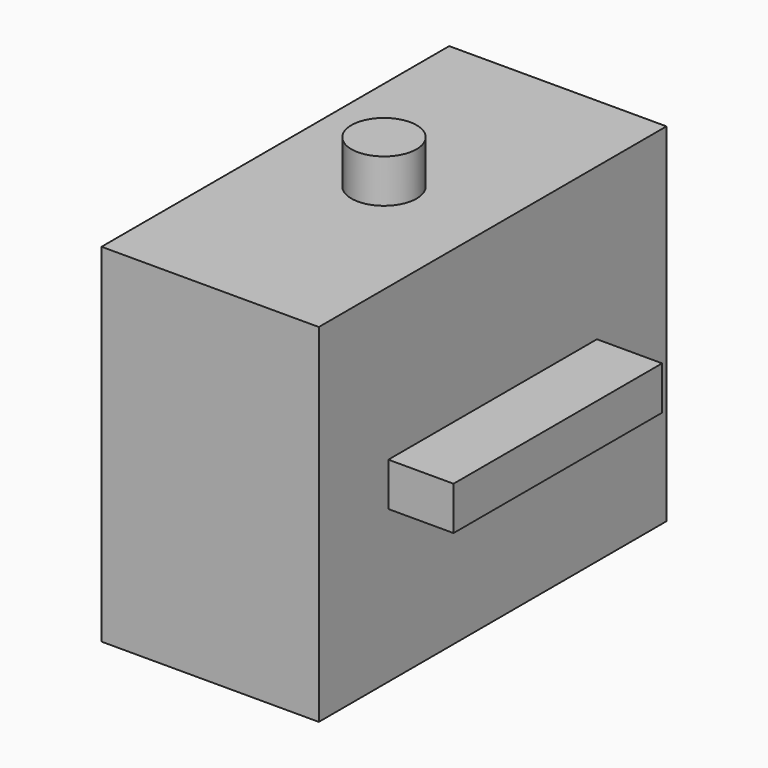
from build123d import *

# Parameters (mm, degrees)
F0_W     = 50
F0_H     = 100
F1_DEPTH = 40
F2_R     = 7.5
F3_DEPTH = 50
F4_R     = 7.5
F5_DEPTH = 50
F6_W     = 80
F6_H     = 60
F7_DEPTH = 5


with BuildPart() as f1:
    # F0 (on Top) → F1 (new body, symmetric)
    with BuildSketch(Plane.XY):
        Rectangle(F0_W, F0_H)
    extrude(amount=F1_DEPTH, both=True)


with BuildPart() as f3:
    # F2 (on Top) → F3 (new body, symmetric)
    with BuildSketch(Plane.XY):
        Circle(F2_R)
    extrude(amount=F3_DEPTH, both=True)


with BuildPart() as f5:
    # F4 (on Top) → F5 (new body, symmetric)
    with BuildSketch(Plane.XY):
        Circle(F4_R)
    extrude(amount=F5_DEPTH, both=True)


with BuildPart() as f7:
    # F6 (on Top) → F7 (new body, symmetric)
    with BuildSketch(Plane.XY):
        Rectangle(F6_W, F6_H)
    extrude(amount=F7_DEPTH, both=True)


solid = Compound([f1.part, f3.part, f5.part, f7.part])
